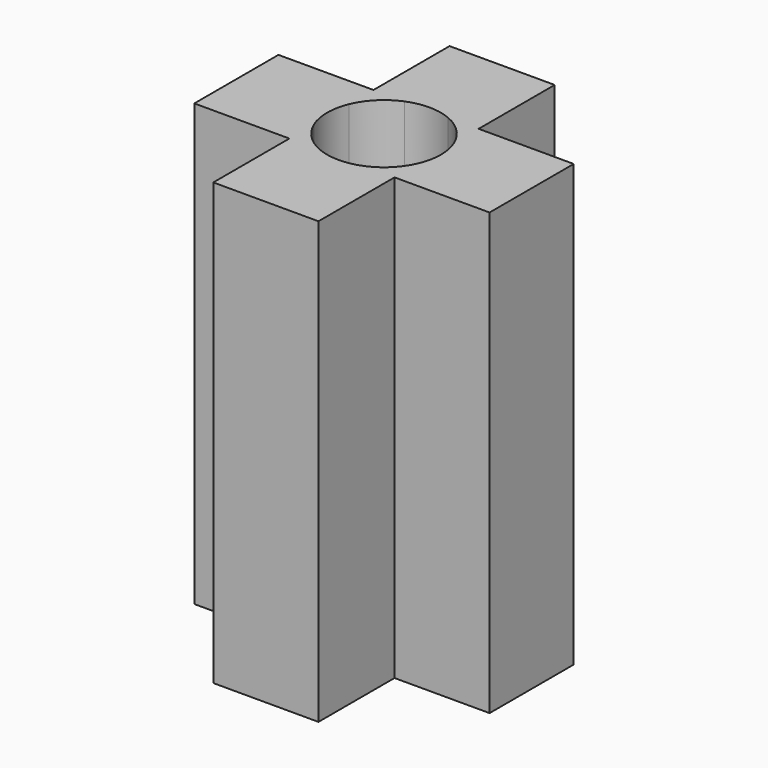
from build123d import *

# Parameters (mm, degrees)
F1_DEPTH = 7.7724
F2_DEPTH = 2.54


with BuildPart() as f1:
    # F0 (on Top) → F1 (new body)
    with BuildSketch(Plane.XY):
        with BuildLine():
            Line((29.3928639389, -5.0019352848), (29.3928639389, -6.6783352848))
            Line((29.3928639389, -6.6783352848), (29.9364323496, -6.6783352848))
            ThreePointArc((29.9364323496, -6.6783352848), (30.3199639389, -6.6021352848), (30.7034955282, -6.6783352848))
            Line((30.7034955282, -6.6783352848), (31.2470639389, -6.6783352848))
            Line((31.2470639389, -6.6783352848), (31.2470639389, -5.0019352848))
            Line((31.2470639389, -5.0019352848), (29.3928639389, -5.0019352848))
        make_face()
        with BuildLine():
            Line((29.9364323496, -6.6783352848), (29.3928639389, -6.6783352848))
            Line((29.3928639389, -6.6783352848), (29.3928639389, -7.2219036954))
            ThreePointArc((29.3928639389, -7.2219036954), (29.6105237053, -6.8959950512), (29.9364323496, -6.6783352848))
        make_face()
        with BuildLine():
            Line((29.3928639389, -6.6783352848), (27.7164639389, -6.6783352848))
            Line((27.7164639389, -6.6783352848), (27.7164639389, -8.5325352848))
            Line((27.7164639389, -8.5325352848), (29.3928639389, -8.5325352848))
            Line((29.3928639389, -8.5325352848), (29.3928639389, -7.9889668741))
            ThreePointArc((29.3928639389, -7.9889668741), (29.3166639389, -7.6054352848), (29.3928639389, -7.2219036954))
            Line((29.3928639389, -7.2219036954), (29.3928639389, -6.6783352848))
        make_face()
        with BuildLine():
            Line((29.9364323496, -8.5325352848), (29.3928639389, -8.5325352848))
            Line((29.3928639389, -8.5325352848), (29.3928639389, -10.2089352848))
            Line((29.3928639389, -10.2089352848), (31.2470639389, -10.2089352848))
            Line((31.2470639389, -10.2089352848), (31.2470639389, -8.5325352848))
            Line((31.2470639389, -8.5325352848), (30.7034955282, -8.5325352848))
            ThreePointArc((30.7034955282, -8.5325352848), (30.3199639389, -8.6087352848), (29.9364323496, -8.5325352848))
        make_face()
        with BuildLine():
            Line((32.9234639389, -6.6783352848), (31.2470639389, -6.6783352848))
            Line((31.2470639389, -6.6783352848), (31.2470639389, -7.2219036954))
            ThreePointArc((31.2470639389, -7.2219036954), (31.3040295668, -7.4099212699), (31.3232639389, -7.6054352848))
            ThreePointArc((31.3232639389, -7.6054352848), (31.3040295668, -7.8009492996), (31.2470639389, -7.9889668741))
            Line((31.2470639389, -7.9889668741), (31.2470639389, -8.5325352848))
            Line((31.2470639389, -8.5325352848), (32.9234639389, -8.5325352848))
            Line((32.9234639389, -8.5325352848), (32.9234639389, -6.6783352848))
        make_face()
        with BuildLine():
            Line((31.2470639389, -6.6783352848), (30.7034955282, -6.6783352848))
            ThreePointArc((30.7034955282, -6.6783352848), (31.0294041725, -6.8959950512), (31.2470639389, -7.2219036954))
            Line((31.2470639389, -7.2219036954), (31.2470639389, -6.6783352848))
        make_face()
        with BuildLine():
            ThreePointArc((31.2470639389, -7.9889668741), (31.0294041725, -8.3148755183), (30.7034955282, -8.5325352848))
            Line((30.7034955282, -8.5325352848), (31.2470639389, -8.5325352848))
            Line((31.2470639389, -8.5325352848), (31.2470639389, -7.9889668741))
        make_face()
        with BuildLine():
            Line((29.3928639389, -7.9889668741), (29.3928639389, -8.5325352848))
            Line((29.3928639389, -8.5325352848), (29.9364323496, -8.5325352848))
            ThreePointArc((29.9364323496, -8.5325352848), (29.6105237053, -8.3148755183), (29.3928639389, -7.9889668741))
        make_face()
    extrude(amount=F1_DEPTH)

    # F0 (on Top) → F2 (join)
    with BuildSketch(Plane.XY):
        with BuildLine():
            Line((30.7034955282, -6.6783352848), (29.9364323496, -6.6783352848))
            ThreePointArc((29.9364323496, -6.6783352848), (29.6105237053, -6.8959950512), (29.3928639389, -7.2219036954))
            Line((29.3928639389, -7.2219036954), (29.3928639389, -7.9889668741))
            ThreePointArc((29.3928639389, -7.9889668741), (29.6105237053, -8.3148755183), (29.9364323496, -8.5325352848))
            Line((29.9364323496, -8.5325352848), (30.7034955282, -8.5325352848))
            ThreePointArc((30.7034955282, -8.5325352848), (31.0294041725, -8.3148755183), (31.2470639389, -7.9889668741))
            Line((31.2470639389, -7.9889668741), (31.2470639389, -7.2219036954))
            ThreePointArc((31.2470639389, -7.2219036954), (31.0294041725, -6.8959950512), (30.7034955282, -6.6783352848))
        make_face()
        with BuildLine():
            Line((29.3928639389, -7.9889668741), (29.3928639389, -7.2219036954))
            ThreePointArc((29.3928639389, -7.2219036954), (29.3166639389, -7.6054352848), (29.3928639389, -7.9889668741))
        make_face()
        with BuildLine():
            Line((30.7034955282, -8.5325352848), (29.9364323496, -8.5325352848))
            ThreePointArc((29.9364323496, -8.5325352848), (30.3199639389, -8.6087352848), (30.7034955282, -8.5325352848))
        make_face()
        with BuildLine():
            ThreePointArc((31.3232639389, -7.6054352848), (31.3040295668, -7.4099212699), (31.2470639389, -7.2219036954))
            Line((31.2470639389, -7.2219036954), (31.2470639389, -7.9889668741))
            ThreePointArc((31.2470639389, -7.9889668741), (31.3040295668, -7.8009492996), (31.3232639389, -7.6054352848))
        make_face()
        with BuildLine():
            ThreePointArc((30.7034955282, -6.6783352848), (30.3199639389, -6.6021352848), (29.9364323496, -6.6783352848))
            Line((29.9364323496, -6.6783352848), (30.7034955282, -6.6783352848))
        make_face()
    extrude(amount=F2_DEPTH)


solid = f1.part
